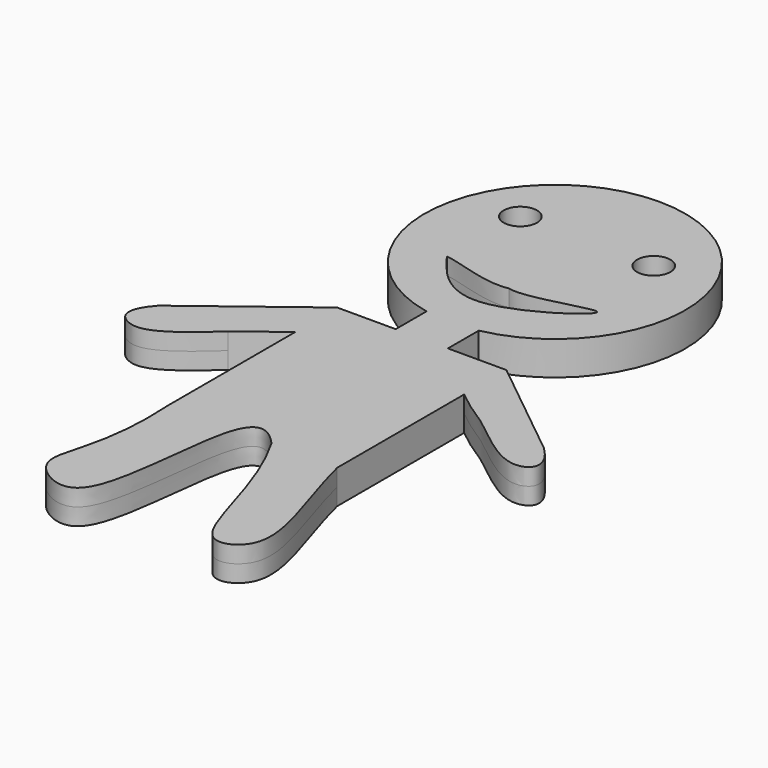
from build123d import *

# Parameters (mm, degrees)
F0_R     = 3.2557747271
F1_DEPTH = 3.302


with BuildPart() as f1:
    # F0 (on Top) → F1 (new body, symmetric)
    with BuildSketch(Plane.XY):
        with BuildLine():
            Line((5.0902032033, 16.5135953575), (5.0902032033, 24.0319953575))
            ThreePointArc((5.0902032033, 24.0319953575), (-0.0017916206, 74.4254382859), (-5.0866922917, 24.0312790348))
            Line((-5.0866922917, 24.0312790348), (-5.0866922917, 16.5135953575))
            Line((-5.0866922917, 16.5135953575), (-16.5087468922, 16.5135953575))
            Line((-16.5087468922, 16.5135953575), (-38.1471216679, 0))
            add(Edge.make_bspline(
                [(-38.1471216679, 0), (-41.8173019866, -4.1479634152), (-38.1038363991, -8.9643203868), (-32.5479097664, -7.466728799), (-24.5768346702, 0)],
                knots=[0, 0, 0, 0, 0.4011217193, 1, 1, 1, 1], degree=3))
            Line((-24.5768346702, 0), (-16.4426919073, 6.2076724134))
            Line((-16.4426919073, 6.2076724134), (-16.4426919073, -24.7321557254))
            add(Edge.make_bspline(
                [(-16.4426919073, -24.7321557254), (-15.2728445828, -43.0595688522), (-24.543186495, -49.8876527125), (-5.0638806577, -61.2356108164), (-6.4912155804, -22.7476959147), (0, -20.5655153841), (3.6832357291, -24.7321557254)],
                knots=[0, 0, 0, 0, 0.3177236577, 0.4988105107, 0.8372916449, 1, 1, 1, 1], degree=3))
            add(Edge.make_bspline(
                [(3.6832357291, -24.7321557254), (11.528535746, -38.3299142122), (12.3383591137, -58.7577995665), (26.8448871782, -51.4598281753), (19.2311480641, -35.9646044672), (16.5078004939, -24.7321557254)],
                knots=[0, 0, 0, 0, 0.4228463026, 0.6108480109, 1, 1, 1, 1], degree=3))
            Line((16.5078004939, -24.7321557254), (16.5078004939, 6.2076724134))
            add(Edge.make_bspline(
                [(37.029132247, 0), (41.8643541634, -4.6797520481), (36.7340706254, -10.2547104205), (24.0421511033, 1.6222858886), (20.9620334208, 2.5663857814), (16.5078004939, 6.2076724134)],
                knots=[0, 0, 0, 0, 0.2749382686, 0.6604031241, 1, 1, 1, 1], degree=3))
            Line((37.029132247, 0), (16.5078004939, 16.5135953575))
            Line((16.5078004939, 16.5135953575), (5.0902032033, 16.5135953575))
        make_face()
        with Locations((-13.4614137933, 57.3711618781)):
            Circle(F0_R, mode=Mode.SUBTRACT)
        with BuildLine():
            add(Edge.make_bspline(
                [(0, 37.7828329802), (3.9473944344, 36.7329530418), (25.2943186682, 45.4993517341), (-2.451900255, 26.0626289111), (-10.5410218239, 35.2789796889), (-13.9921056107, 40.1252135634)],
                knots=[0, 0, 0, 0, 0.3233287002, 0.6672135368, 1, 1, 1, 1], degree=3))
            add(Edge.make_bspline(
                [(-13.9921056107, 40.1252135634), (-10.6967361644, 39.7676564753), (-4.500658717, 36.909904331), (0, 37.7828329802)],
                knots=[0, 0, 0, 0, 14.1868166344, 14.1868166344, 14.1868166344, 14.1868166344], degree=3))
        make_face(mode=Mode.SUBTRACT)
        with Locations((12.5520825386, 57.3711618781)):
            Circle(F0_R, mode=Mode.SUBTRACT)
    extrude(amount=F1_DEPTH, both=True)


solid = f1.part
